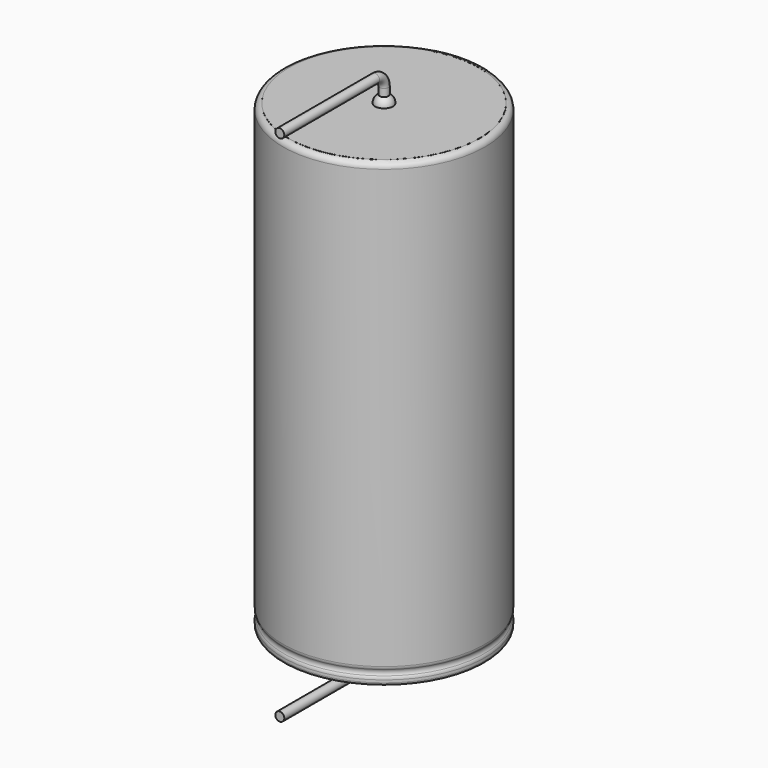
from build123d import *

# Parameters (mm, degrees)
SKETCH011_R             = 0.4
BODY007_PLACEMENT_ANGLE = 180
REVOLUTION001_ANGLE     = -30
POCKET_DEPTH            = 9.011
LINEARPATTERN_COUNT     = 10
LINEARPATTERN_PITCH     = 4
SKETCH012_R             = 8.5
PAD_DEPTH               = 0.01
BODY008_PLACEMENT_ANGLE = 90


with BuildPart() as lead:
    # AdditivePipe: sweep along a path in Sketch010
    with BuildLine(Plane(origin=(0, 0, 0), x_dir=(0, -1, 0), z_dir=(-1, 0, 0))) as additivepipe_path:
        Line((0, 41), (0, 42.36))
        ThreePointArc((0, 42.36), (0.292893, 43.067107), (1, 43.36))
        Line((1, 43.36), (11.6, 43.36))
    # Sketch011 → AdditivePipe (sweep)
    with BuildSketch(Plane.XY.offset(41)):
        Circle(SKETCH011_R)
    sweep(path=additivepipe_path.line)


with BuildPart() as obj1:
    # Body007 base: copy of Lead
    add(lead.part)


with BuildPart() as obj1_1:
    # Body007 placement: moved
    add(obj1.part.moved(Location((0, 0, 41))).rotate(Axis((0, 0, 41), (0, 1, 0)), BODY007_PLACEMENT_ANGLE))


with BuildPart() as polaritymarking:
    # Sketch005 → Revolution001 (revolve)
    with BuildSketch(Plane(origin=(0, 0, 0), x_dir=(-0.258819, 0.965926, 0), z_dir=(0.965926, 0.258819, 0))):
        with BuildLine():
            Line((8.51, 0.043526), (8.51, 41.01))
            ThreePointArc((8.51, 41.01), (8.863553, 40.863553), (9.01, 40.51))
            Line((9.01, 40.51), (9.01, 1.523941))
            ThreePointArc((9.01, 1.523941), (8.989134, 1.381006), (8.928278, 1.25))
            ThreePointArc((8.928278, 1.25), (8.853698, 1), (8.928278, 0.75))
            ThreePointArc((8.928278, 0.75), (8.989134, 0.618994), (9.01, 0.476059))
            Line((9.01, 0.476059), (9.01, 0.043526))
            ThreePointArc((9.01, 0.043526), (8.76, -0.206474), (8.51, 0.043526))
        make_face()
    revolve(axis=Axis((0, 0, 0), (0, 0, 1)), revolution_arc=REVOLUTION001_ANGLE)

    # Sketch013 → Pocket (cut, through all)
    with BuildSketch(Plane.XZ):
        Polygon((0.375, 2), (-0.375, 2), (-0.375, 3), (0, 3.5), (0.375, 3), align=None)
    pocket = extrude(amount=-POCKET_DEPTH, mode=Mode.SUBTRACT)

    # LinearPattern: Pocket ×10
    with Locations(*[(0, 0, i * LINEARPATTERN_PITCH) for i in range(1, LINEARPATTERN_COUNT)]):
        add(pocket, mode=Mode.SUBTRACT)


with BuildPart() as housing:
    # Sketch → Revolution (revolve)
    with BuildSketch(Plane.XZ):
        with BuildLine():
            Line((0, 41), (8.5, 41))
            ThreePointArc((9, 40.5), (8.853553, 40.853553), (8.5, 41))
            Line((9, 40.5), (9, 1.523941))
            ThreePointArc((8.918278, 1.25), (8.979134, 1.381006), (9, 1.523941))
            ThreePointArc((8.918278, 1.25), (8.843698, 1), (8.918278, 0.75))
            ThreePointArc((9, 0.476059), (8.979134, 0.618994), (8.918278, 0.75))
            Line((9, 0.476059), (9, 0.25))
            ThreePointArc((8.75, 0), (8.926777, 0.073223), (9, 0.25))
            Line((0, 0), (8.75, 0))
            Line((0, 41), (0, 0))
        make_face()
    revolve(axis=Axis((0, 0, 0), (0, 0, 1)))


with BuildPart() as fusion:
    # Sphere → Sphere (revolve)
    with BuildSketch(Plane.XZ):
        with BuildLine():
            ThreePointArc((0, -0.8), (0.8, 0), (0, 0.8))
            Line((0, 0.8), (0, -0.8))
        make_face()
    revolve(axis=Axis((0, 0, 0), (0, 0, 1)))

    # Sketch012 (on ShapeBinder) → Pad (new body)
    with BuildSketch(Plane(origin=(0, 0, 0), x_dir=(0, -1, 0), z_dir=(0, 0, 1))):
        Circle(SKETCH012_R)
    extrude(amount=PAD_DEPTH)


with BuildPart() as fusion_1:
    # Body008 placement: moved
    add(fusion.part.moved(Location((0, 0, 41))).rotate(Axis((0, 0, 41), (0, 0, -1)), BODY008_PLACEMENT_ANGLE))

    # Fusion: union obj1, Lead, PolarityMarking, Housing
    add(obj1_1.part)
    add(lead.part)
    add(polaritymarking.part)
    add(housing.part)


solid = fusion_1.part
